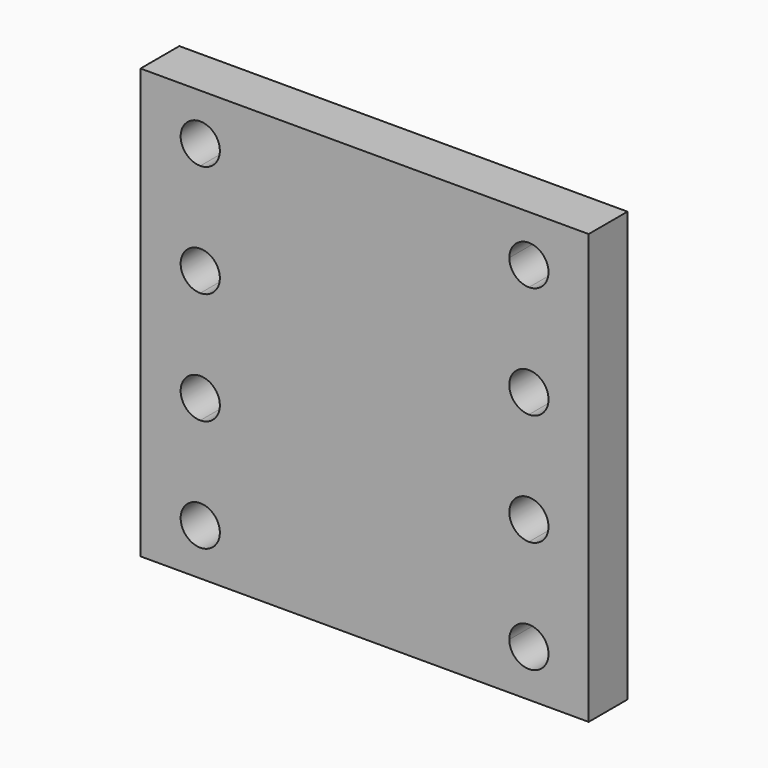
from build123d import *

# Parameters (mm, degrees)
F0_W     = 120
F0_H     = 115
F1_DEPTH = 13


with BuildPart() as f1:
    # F0 (on Front) → F1 (new body)
    with BuildSketch(Plane.XZ):
        Rectangle(F0_W, F0_H)
        with BuildLine():
            Line((38.75, -45), (-38.75, -45))
            ThreePointArc((-38.75, -45), (-47.7123106012, -48.7123106012), (-44, -39.75))
            Line((-44, -39.75), (-44, -20.25))
            ThreePointArc((-44, -20.25), (-49.25, -15), (-44, -9.75))
            Line((-44, -9.75), (-44, 9.75))
            ThreePointArc((-44, 9.75), (-49.25, 15), (-44, 20.25))
            Line((-44, 20.25), (-44, 39.75))
            ThreePointArc((-44, 39.75), (-47.7123106012, 48.7123106012), (-38.75, 45))
            Line((-38.75, 45), (38.75, 45))
            ThreePointArc((38.75, 45), (44, 50.25), (49.25, 45))
            ThreePointArc((49.25, 45), (47.7123106012, 41.2876893988), (44, 39.75))
            Line((44, 39.75), (44, 20.25))
            ThreePointArc((44, 20.25), (47.7123106012, 18.7123106012), (49.25, 15))
            ThreePointArc((49.25, 15), (47.7123106012, 11.2876893988), (44, 9.75))
            Line((44, 9.75), (44, -9.75))
            ThreePointArc((44, -9.75), (47.7123106012, -11.2876893988), (49.25, -15))
            ThreePointArc((49.25, -15), (47.7123106012, -18.7123106012), (44, -20.25))
            Line((44, -20.25), (44, -39.75))
            ThreePointArc((44, -39.75), (47.7123106012, -41.2876893988), (49.25, -45))
            ThreePointArc((49.25, -45), (44, -50.25), (38.75, -45))
        make_face(mode=Mode.SUBTRACT)
        with BuildLine():
            ThreePointArc((-44, -39.75), (-40.2876893988, -41.2876893988), (-38.75, -45))
            Line((-38.75, -45), (38.75, -45))
            ThreePointArc((38.75, -45), (40.2876893988, -41.2876893988), (44, -39.75))
            Line((44, -39.75), (44, -20.25))
            ThreePointArc((44, -20.25), (38.75, -15), (44, -9.75))
            Line((44, -9.75), (44, 9.75))
            ThreePointArc((44, 9.75), (38.75, 15), (44, 20.25))
            Line((44, 20.25), (44, 39.75))
            ThreePointArc((44, 39.75), (40.2876893988, 41.2876893988), (38.75, 45))
            Line((38.75, 45), (-38.75, 45))
            ThreePointArc((-38.75, 45), (-40.2876893988, 41.2876893988), (-44, 39.75))
            Line((-44, 39.75), (-44, 20.25))
            ThreePointArc((-44, 20.25), (-40.2876893988, 18.7123106012), (-38.75, 15))
            ThreePointArc((-38.75, 15), (-40.2876893988, 11.2876893988), (-44, 9.75))
            Line((-44, 9.75), (-44, -9.75))
            ThreePointArc((-44, -9.75), (-40.2876893988, -11.2876893988), (-38.75, -15))
            ThreePointArc((-38.75, -15), (-40.2876893988, -18.7123106012), (-44, -20.25))
            Line((-44, -20.25), (-44, -39.75))
        make_face()
    extrude(amount=F1_DEPTH)


solid = f1.part
